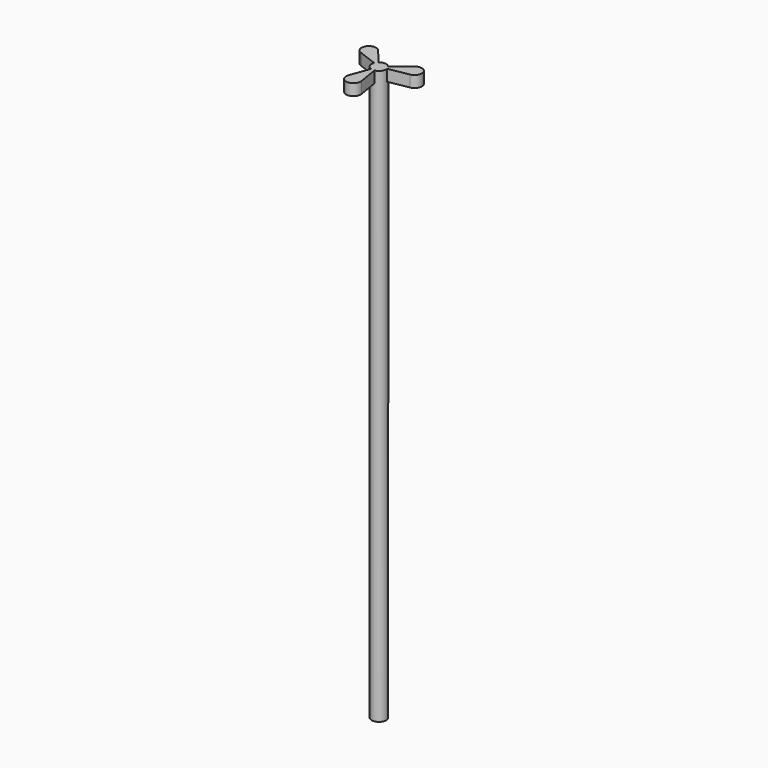
from build123d import *

# Parameters (mm, degrees)
F0_R     = 6.35
F1_DEPTH = 500
F3_DEPTH = 10
F5_DEPTH = 12.7


with BuildPart() as f1:
    # F0 (on Top) → F1 (new body)
    with BuildSketch(Plane.XY):
        Circle(F0_R)
    extrude(amount=F1_DEPTH)

    # F2 (on face) → F3 (join)
    with BuildSketch(Plane.XY.offset(500)):
        with BuildLine():
            Line((-4.0875947315, 4.8594309657), (-15.054643582, 17.89732251))
            Line((-15.054643582, 17.89732251), (-16.0928926438, 19.1316179753))
            ThreePointArc((-16.0928926438, 19.1316179753), (-25.5738890172, 18.1328072988), (-23.379079454, 8.855430192))
            Line((-23.379079454, 8.855430192), (-21.8707547639, 8.2841132578))
            Line((-21.8707547639, 8.2841132578), (-5.9382861813, 2.2492792688))
            ThreePointArc((-5.9382861813, 2.2492792688), (-5.1800381263, 3.6728333763), (-4.0875947315, 4.8594309657))
        make_face()
        with BuildLine():
            Line((18.109629911, 14.7985725966), (4.9170760776, 4.0180670536))
            ThreePointArc((4.9170760776, 4.0180670536), (5.7735991749, 2.6434924943), (6.2545341231, 1.096951641))
            Line((6.2545341231, 1.096951641), (23.8165818414, 4.1770718682))
            ThreePointArc((23.8165818414, 4.1770718682), (28.6497325197, 12.7023738091), (19.3585672347, 15.8191616282))
            Line((19.3585672347, 15.8191616282), (18.109629911, 14.7985725966))
        make_face()
        with BuildLine():
            Line((3.9393819064, -23.8570486481), (1.0345312657, -6.2651612158))
            ThreePointArc((1.0345312657, -6.2651612158), (-0.5907479446, -6.3224612981), (-2.1772790737, -5.96506126))
            Line((-2.1772790737, -5.96506126), (-8.2908405694, -22.7143008401))
            ThreePointArc((-8.2908405694, -22.7143008401), (-2.9165272541, -31.2140412119), (3.9393819064, -23.8570486481))
        make_face()
    extrude(amount=-F3_DEPTH)

    # F4 (on face) → F5 (cut)
    with BuildSketch(Plane(origin=(0, 0, 0), x_dir=(1, 0, 0), z_dir=(0, 0, -1))):
        with BuildLine():
            Line((1.27, -3.81), (0, -3.81))
            Line((0, -3.81), (0, -6.35))
            ThreePointArc((0, -6.35), (0.6382319087, -6.3178445716), (1.27, -6.2217039467))
            Line((1.27, -6.2217039467), (1.27, -3.81))
        make_face()
        with BuildLine():
            Line((0, -6.35), (0, -3.81))
            Line((0, -3.81), (-1.27, -3.81))
            Line((-1.27, -3.81), (-1.27, -6.2217039467))
            ThreePointArc((-1.27, -6.2217039467), (-0.6382319087, -6.3178445716), (0, -6.35))
        make_face()
    extrude(amount=-F5_DEPTH, mode=Mode.SUBTRACT)


solid = f1.part
